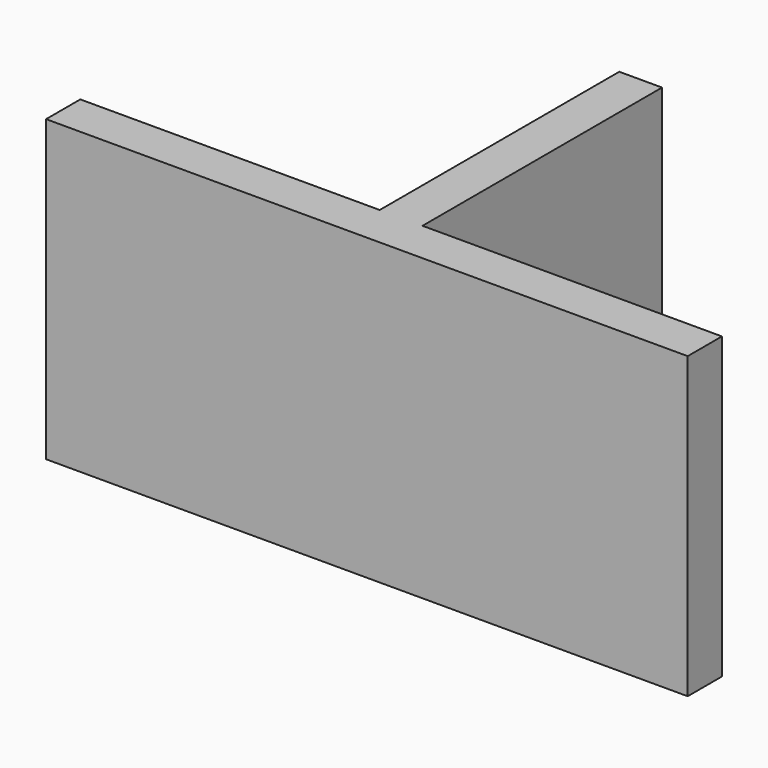
from build123d import *

# Parameters (mm, degrees)
PAD_DEPTH = 7


with BuildPart() as part:
    # Sketch → Pad (new body)
    with BuildSketch(Plane.XY):
        Polygon((0, 0), (15, 0), (15, 1), (8, 1), (8, 8), (7, 8), (7, 1), (0, 1), align=None)
    extrude(amount=PAD_DEPTH)


solid = part.part
